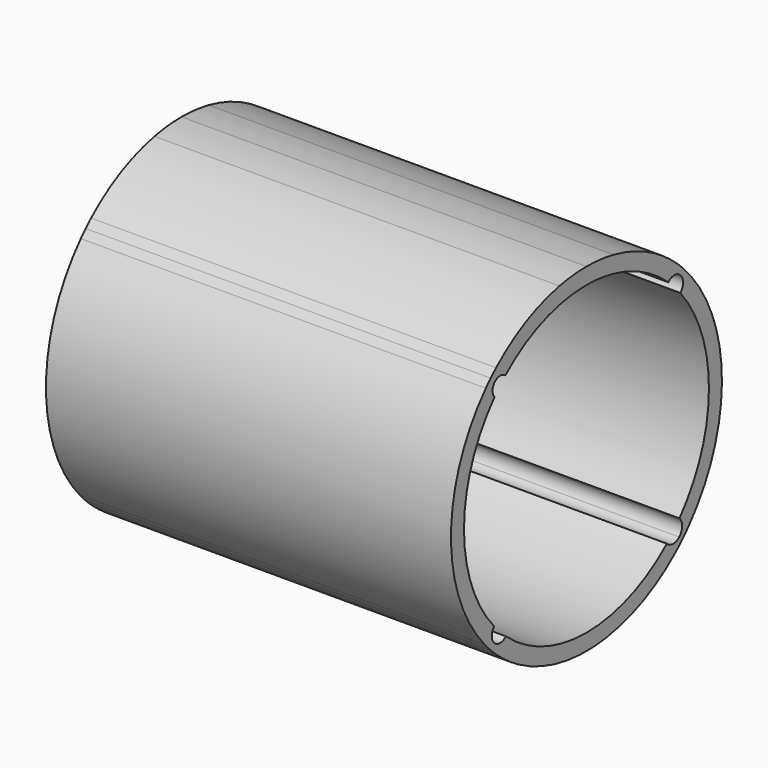
from build123d import *

# Parameters (mm, degrees)
F1_DEPTH = 1518.92


with BuildPart() as f1:
    # F0 (on Right) → F1 (new body)
    with BuildSketch(Plane.YZ):
        with BuildLine():
            ThreePointArc((480.9804634424, -414.5874983483), (595.2510370784, -221.136163612), (635, 0))
            ThreePointArc((635, 0), (595.841680026, 219.5397283952), (483.1962445864, 412.0028995257))
            Line((483.1962445864, 412.0028995257), (441.8888934524, 370.6955483917))
            ThreePointArc((441.8888934524, 370.6955483917), (440.9311559968, 369.7047772602), (439.9403848652, 368.7470398046))
            ThreePointArc((439.9403848652, 368.7470398046), (539.4744202129, 196.1868281409), (574.04, 0))
            ThreePointArc((574.04, 0), (538.4095588771, -199.0906037705), (435.9413709507, -373.4662537547))
            Line((435.9413709507, -373.4662537547), (480.9804634424, -414.5874983483))
        make_face()
        with BuildLine():
            Line((448.1448539206, 448.1448539206), (483.1962445864, 412.0028995257))
            ThreePointArc((483.1962445864, 412.0028995257), (466.4717159904, 430.8470008959), (449.0128060535, 449.0128060535))
            Line((449.0128060535, 449.0128060535), (448.1448539206, 448.1448539206))
        make_face()
        with BuildLine():
            Line((441.8888934524, 370.6955483917), (483.1962445864, 412.0028995257))
            Line((483.1962445864, 412.0028995257), (448.1448539206, 448.1448539206))
            Line((448.1448539206, 448.1448539206), (433.2261814324, 433.2261814324))
            ThreePointArc((433.2261814324, 433.2261814324), (452.451837495, 404.0242540994), (441.8888934524, 370.6955483917))
        make_face()
        with BuildLine():
            ThreePointArc((449.0128060535, -449.0128060535), (465.3151037518, -432.0958854473), (480.9804634424, -414.5874983483))
            Line((480.9804634424, -414.5874983483), (435.9413709507, -373.4662537547))
            ThreePointArc((435.9413709507, -373.4662537547), (448.7707733518, -404.4033994441), (434.8777020457, -434.8777020457))
            Line((434.8777020457, -434.8777020457), (449.0128060535, -449.0128060535))
        make_face()
        with BuildLine():
            Line((448.1448539206, 448.1448539206), (449.0128060535, 449.0128060535))
            ThreePointArc((449.0128060535, 449.0128060535), (437.941193588, 459.8179106546), (426.6096447228, 470.3500941102))
            Line((426.6096447228, 470.3500941102), (448.1448539206, 448.1448539206))
        make_face()
        with BuildLine():
            Line((433.2261814324, 433.2261814324), (448.1448539206, 448.1448539206))
            Line((448.1448539206, 448.1448539206), (426.6096447228, 470.3500941102))
            Line((426.6096447228, 470.3500941102), (383.4477419348, 427.1881913222))
            ThreePointArc((383.4477419348, 427.1881913222), (407.2949633542, 438.7976361547), (433.2261814324, 433.2261814324))
        make_face()
        with BuildLine():
            ThreePointArc((419.5442218167, -476.6630318581), (434.4985171579, -463.0723902238), (449.0128060535, -449.0128060535))
            Line((449.0128060535, -449.0128060535), (434.8777020457, -434.8777020457))
            ThreePointArc((434.8777020457, -434.8777020457), (405.4817612517, -445.6252670379), (376.823096037, -433.0430416172))
            Line((376.823096037, -433.0430416172), (419.5442218167, -476.6630318581))
        make_face()
        with BuildLine():
            Line((383.4477419348, 427.1881913222), (426.6096447228, 470.3500941102))
            ThreePointArc((426.6096447228, 470.3500941102), (374.1762649744, 513.0469011015), (317.5, 549.9261314031))
            Line((317.5, 549.9261314031), (287.02, 497.1332227884))
            ThreePointArc((287.02, 497.1332227884), (337.053148777, 464.6688030194), (383.4477419348, 427.1881913222))
        make_face()
        with BuildLine():
            ThreePointArc((-317.5, -549.9261314031), (62.8102399317, -631.8859657879), (419.5442218167, -476.6630318581))
            Line((419.5442218167, -476.6630318581), (376.823096037, -433.0430416172))
            ThreePointArc((376.823096037, -433.0430416172), (55.1637276215, -571.3833080822), (-287.02, -497.1332227884))
            Line((-287.02, -497.1332227884), (-317.5, -549.9261314031))
        make_face()
        with BuildLine():
            Line((287.02, 497.1332227884), (317.5, 549.9261314031))
            ThreePointArc((317.5, 549.9261314031), (225.3213660279, 593.6794438174), (127.3249436563, 622.1039774209))
            Line((127.3249436563, 622.1039774209), (127.3249436563, 559.7412619442))
            ThreePointArc((127.3249436563, 559.7412619442), (209.5241626284, 534.4357275434), (287.02, 497.1332227884))
        make_face()
        with BuildLine():
            ThreePointArc((-418.5309043384, -477.5530149771), (-369.7902649214, -516.217163575), (-317.5, -549.9261314031))
            Line((-317.5, -549.9261314031), (-287.02, -497.1332227884))
            ThreePointArc((-287.02, -497.1332227884), (-334.0445124943, -466.8363581304), (-377.8968727952, -432.1063238737))
            Line((-377.8968727952, -432.1063238737), (-418.5309043384, -477.5530149771))
        make_face()
        with BuildLine():
            Line((127.3249436563, 559.7412619442), (127.3249436563, 622.1039774209))
            ThreePointArc((127.3249436563, 622.1039774209), (63.9881799152, 631.7677681167), (0, 635))
            Line((0, 635), (0, 574.04))
            ThreePointArc((0, 574.04), (64.0626552429, 570.4541154232), (127.3249436563, 559.7412619442))
        make_face()
        with BuildLine():
            ThreePointArc((-449.0128060535, -449.0128060535), (-434.0065186624, -463.5335389791), (-418.5309043384, -477.5530149771))
            Line((-418.5309043384, -477.5530149771), (-377.8968727952, -432.1063238737))
            ThreePointArc((-377.8968727952, -432.1063238737), (-405.0729040861, -443.411662862), (-432.3483661941, -432.3483661941))
            Line((-432.3483661941, -432.3483661941), (-449.0128060535, -449.0128060535))
        make_face()
        with BuildLine():
            ThreePointArc((-126.6750563437, 559.888695814), (-63.7315253815, 570.4912043779), (0, 574.04))
            Line((0, 574.04), (0, 635))
            ThreePointArc((0, 635), (-63.6582150677, 631.80110134), (-126.6750563437, 622.2366351319))
            Line((-126.6750563437, 622.2366351319), (-126.6750563437, 559.888695814))
        make_face()
        with BuildLine():
            ThreePointArc((-475.8273966751, -420.4917223602), (-462.6399390449, -434.9589484084), (-449.0128060535, -449.0128060535))
            Line((-449.0128060535, -449.0128060535), (-432.3483661941, -432.3483661941))
            ThreePointArc((-432.3483661941, -432.3483661941), (-443.9746189575, -404.8810595547), (-432.6313559922, -377.2956816773))
            Line((-432.6313559922, -377.2956816773), (-475.8273966751, -420.4917223602))
        make_face()
        with BuildLine():
            ThreePointArc((-380.3071282221, 429.9865228394), (-261.6799142132, 510.9261630582), (-126.6750563437, 559.888695814))
            Line((-126.6750563437, 559.888695814), (-126.6750563437, 622.2366351319))
            ThreePointArc((-126.6750563437, 622.2366351319), (-284.9995735723, 567.450652536), (-423.4855076906, 473.1649023079))
            Line((-423.4855076906, 473.1649023079), (-380.3071282221, 429.9865228394))
        make_face()
        with BuildLine():
            ThreePointArc((-429.034485472, 429.034485472), (-404.8572659674, 439.0538902469), (-380.3071282221, 429.9865228394))
            Line((-380.3071282221, 429.9865228394), (-423.4855076906, 473.1649023079))
            ThreePointArc((-423.4855076906, 473.1649023079), (-436.4162666651, 461.2654790791), (-449.0128060535, 449.0128060535))
            Line((-449.0128060535, 449.0128060535), (-429.034485472, 429.034485472))
        make_face()
        with BuildLine():
            ThreePointArc((-432.6313559922, -377.2956816773), (-574.0385014358, 1.3116666396), (-430.9026210014, 379.2688397616))
            Line((-430.9026210014, 379.2688397616), (-471.7979946474, 425.0078261005))
            ThreePointArc((-471.7979946474, 425.0078261005), (-634.9927890784, 3.026188762), (-475.8273966751, -420.4917223602))
            Line((-475.8273966751, -420.4917223602), (-432.6313559922, -377.2956816773))
        make_face()
        with BuildLine():
            Line((-471.7979946474, 425.0078261005), (-430.9026210014, 379.2688397616))
            ThreePointArc((-430.9026210014, 379.2688397616), (-440.0091877926, 404.5285745584), (-429.034485472, 429.034485472))
            Line((-429.034485472, 429.034485472), (-449.0128060535, 449.0128060535))
            ThreePointArc((-449.0128060535, 449.0128060535), (-460.5618226009, 437.1587898722), (-471.7979946474, 425.0078261005))
        make_face()
    extrude(amount=F1_DEPTH)


solid = f1.part
